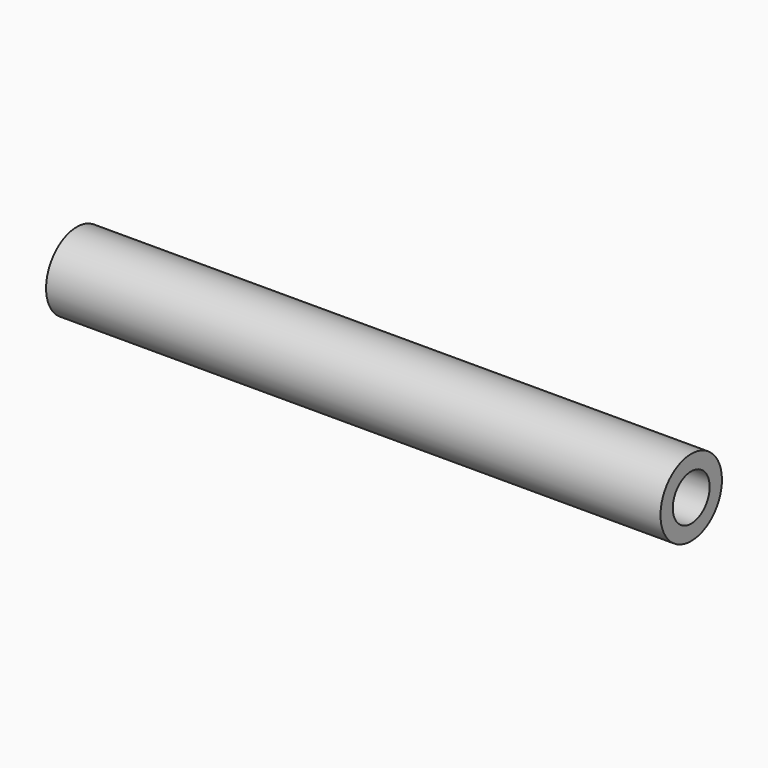
from build123d import *

# Parameters (mm, degrees)
CYLINDER007_R           = 1.5
CYLINDER007_DEPTH       = 44
CYLINDER007_PITCH_ANGLE = 90
CYLINDER006_R           = 2.5
CYLINDER006_DEPTH       = 40
CYLINDER006_PITCH_ANGLE = 90


with BuildPart() as cilindro007:
    # Cylinder007 → Cylinder007 (new body)
    with BuildSketch(Plane.XY):
        Circle(CYLINDER007_R)
    extrude(amount=CYLINDER007_DEPTH)


with BuildPart() as cilindro007_1:
    # Cylinder007 pitch: moved
    add(cilindro007.part.rotate(Axis((0, 0, 0), (0, 1, 0)), CYLINDER007_PITCH_ANGLE))


with BuildPart() as cilindro007_2:
    # Cylinder007 placement: moved
    add(cilindro007_1.part.moved(Location((-2, 0, 0))))


with BuildPart() as soporte4:
    # Cylinder006 → Cylinder006 (new body)
    with BuildSketch(Plane.XY):
        Circle(CYLINDER006_R)
    extrude(amount=CYLINDER006_DEPTH)


with BuildPart() as soporte4_1:
    # Cylinder006 pitch: moved
    add(soporte4.part.rotate(Axis((0, 0, 0), (0, 1, 0)), CYLINDER006_PITCH_ANGLE))


with BuildPart() as soporte4_2:
    # Cylinder006 placement: moved
    add(soporte4_1.part)

    # Cut003: cut Cilindro007
    add(cilindro007_2.part, mode=Mode.SUBTRACT)


with BuildPart() as soporte4_3:
    # Cut003 placement: moved
    add(soporte4_2.part.moved(Location((125, 96, 112.5))))


solid = soporte4_3.part
